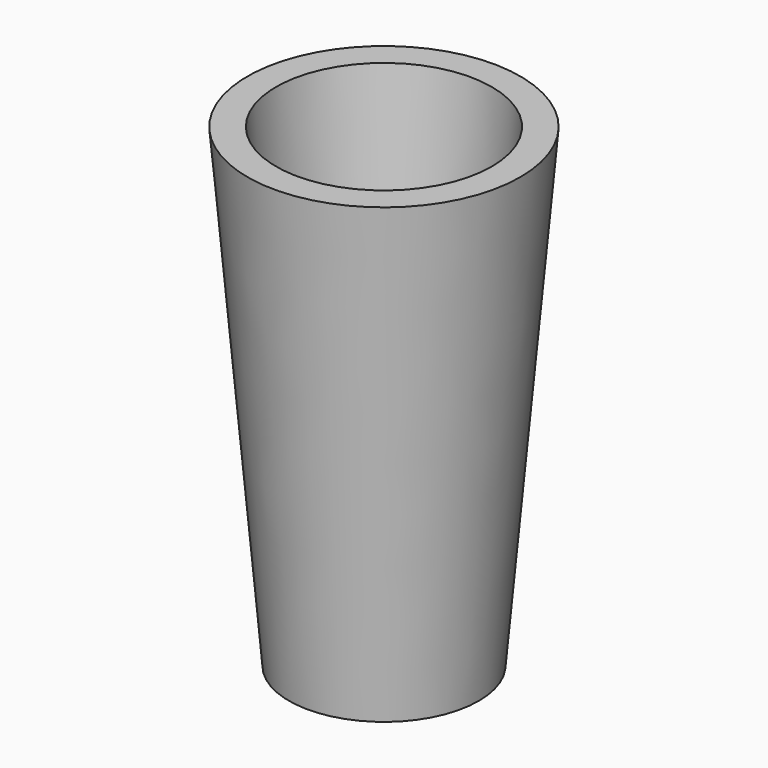
from build123d import *

# Parameters (mm, degrees)
F0_R     = 10
F1_DEPTH = 50
F1_TAPER = -5
F2_T     = -3
F3_DEPTH = 10
F4_D     = 3
F5_R     = 2


with BuildPart() as f1:
    # F0 (on Top) → F1 (new body)
    with BuildSketch(Plane.XY):
        Circle(F0_R)
    extrude(amount=F1_DEPTH, taper=F1_TAPER)

    # F2
    f2_openings = [f1.faces().sort_by_distance(p)[0] for p in [
        (0, 0, 50),
    ]]
    offset(amount=F2_T, openings=f2_openings, kind=Kind.INTERSECTION)

    # F0 (on Top) → F3 (join)
    with BuildSketch(Plane.XY):
        Circle(F0_R)
    extrude(amount=F3_DEPTH)

    # F4 (through all)
    with Locations(Plane(origin=(0, 0, 0), x_dir=(1, 0, 0), z_dir=(0, 0, -1))):
        with Locations((0, 0)):
            Hole(F4_D / 2)

    # F5
    f5_edges = [f1.edges().sort_by_distance(p)[0] for p in [
        (-7.863427, 0, 10),
    ]]
    fillet(f5_edges, radius=F5_R)


solid = f1.part
